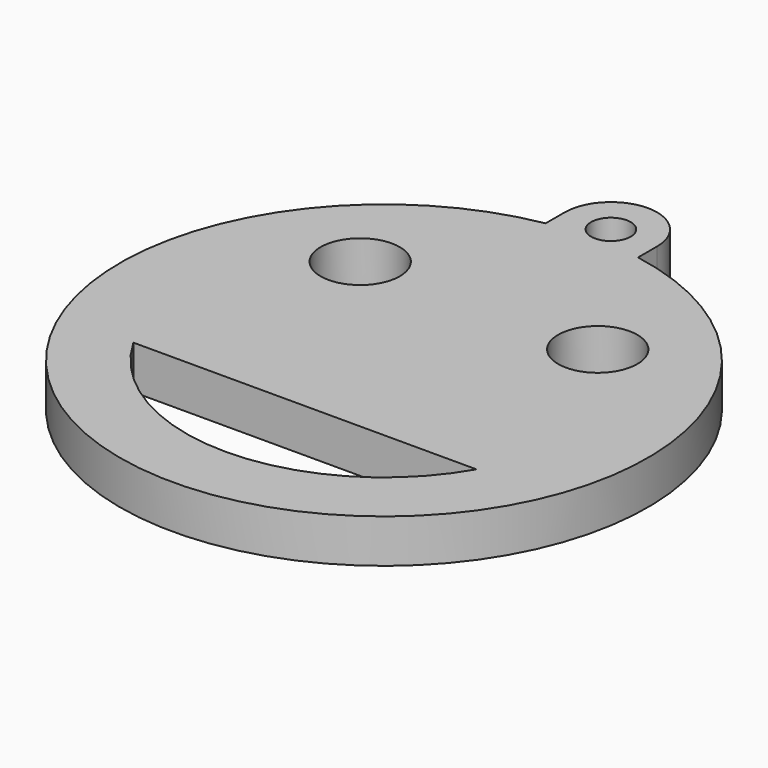
from build123d import *

# Parameters (mm, degrees)
EXTRUDE_DEPTH   = 3.3
SKETCH001_R     = 1.5
POCKET_DEPTH    = 3.301
SKETCH002_R     = 3
POCKET001_DEPTH = 5


with BuildPart() as part:
    # Sketch → Extrude (new body)
    with BuildSketch(Plane.XY):
        with BuildLine():
            ThreePointArc((3.5, 21.5), (0, 25), (-3.5, 21.5))
            Line((-3.5, 21.5), (-3.5, 19.691369))
            ThreePointArc((-3.5, 19.691369), (0, -20), (3.5, 19.691369))
            Line((3.5, 19.691369), (3.5, 21.5))
        make_face()
    extrude(amount=EXTRUDE_DEPTH)

    # Sketch001 (on Face6 of Extrude) → Pocket (cut, through all)
    with BuildSketch(Plane.XY.offset(3.3)):
        with Locations((0, 21.5)):
            Circle(SKETCH001_R)
    extrude(amount=-POCKET_DEPTH, mode=Mode.SUBTRACT)

    # Sketch002 (on Face5 of Clone) → Pocket001 (cut)
    with BuildSketch(Plane.XY.offset(3.3)):
        with Locations((-9, 9)):
            Circle(SKETCH002_R)
        with Locations((9, 9)):
            Circle(SKETCH002_R)
        with BuildLine():
            ThreePointArc((-13, -7.483315), (0, -15), (13, -7.483315))
            Line((-13, -7.483315), (13, -7.483315))
        make_face()
    extrude(amount=-POCKET001_DEPTH, mode=Mode.SUBTRACT)


solid = part.part
